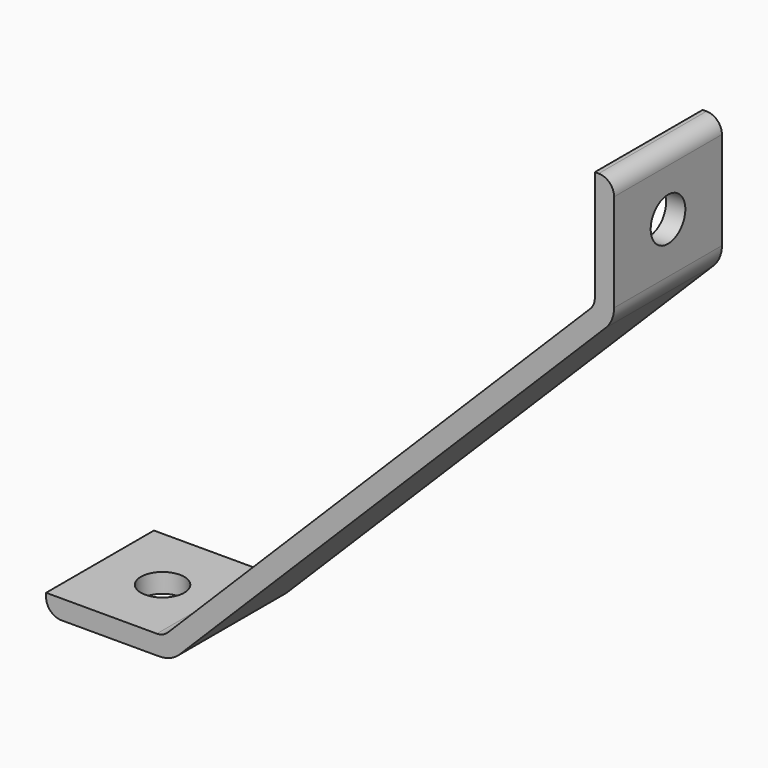
from build123d import *

# Parameters (mm, degrees)
F1_DEPTH = 22.225
F2_R     = 5.08
F3_R     = 9.525
F4_R     = 7.14375
F5_DEPTH = 25.4
F6_R     = 7.14375
F7_DEPTH = 25.4
F8_R     = 5.08


with BuildPart() as f1:
    # F0 (on Front) → F1 (new body, symmetric)
    with BuildSketch(Plane.XZ):
        Polygon((-78.60008, 0), (-76.23788, 0), (-37.32508, 0), (108.721218, 146.046298), (108.721218, 184.959098), (108.721218, 187.321298), (102.371218, 187.321298), (102.371218, 184.959098), (102.371218, 148.676554), (-39.955336, 6.35), (-76.23788, 6.35), (-78.60008, 6.35), align=None)
    extrude(amount=F1_DEPTH, both=True)

    # F2
    f2_edges = [f1.edges().sort_by_distance(p)[0] for p in [
        (-39.955336, 0, 6.35),
        (102.371218, 0, 148.676554),
    ]]
    fillet(f2_edges, radius=F2_R)

    # F3
    f3_edges = [f1.edges().sort_by_distance(p)[0] for p in [
        (108.721218, 0, 146.046298),
        (-37.32508, 0, 0),
    ]]
    fillet(f3_edges, radius=F3_R)

    # F4 (on face) → F5 (cut)
    with BuildSketch(Plane.XY.offset(6.35)):
        with Locations((-57.96258, 0)):
            Circle(F4_R)
    extrude(amount=-F5_DEPTH, mode=Mode.SUBTRACT)

    # F6 (on face) → F7 (cut)
    with BuildSketch(Plane(origin=(102.371218, 0, 0), x_dir=(0, -1, 0), z_dir=(-1, 0, 0))):
        with Locations((0, 166.671098)):
            Circle(F6_R)
    extrude(amount=-F7_DEPTH, mode=Mode.SUBTRACT)

    # F8
    f8_edges = [f1.edges().sort_by_distance(p)[0] for p in [
        (108.721218, 0, 187.321298),
        (-78.60008, 0, 0),
    ]]
    fillet(f8_edges, radius=F8_R)


solid = f1.part
